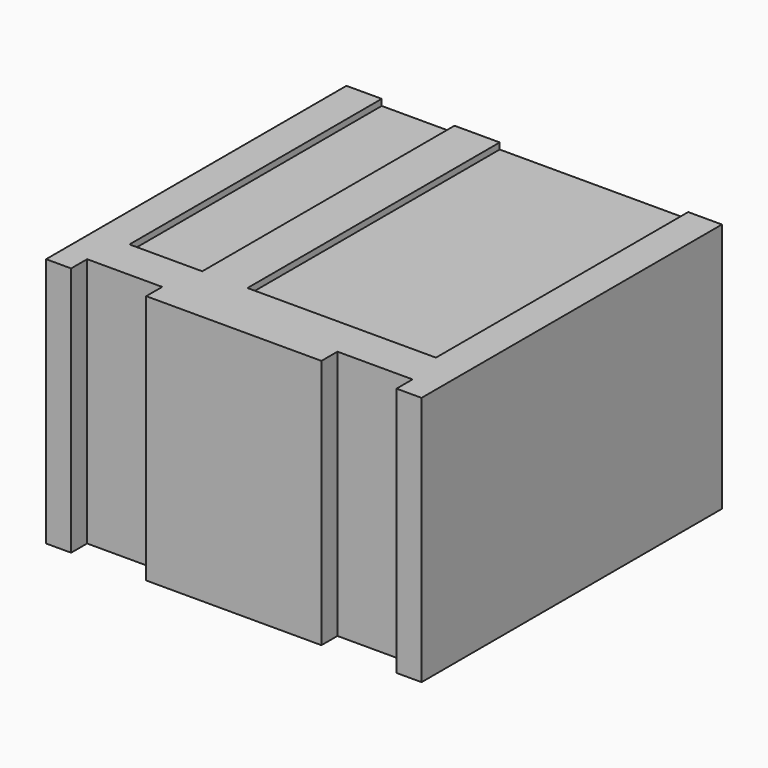
from build123d import *

# Parameters (mm, degrees)
F0_W     = 1500
F0_H     = 1000
F1_DEPTH = 1500
F2_W     = 300
F2_H     = 80
F3_DEPTH = 1000
F4_W     = 290.798738
F4_H     = 1259.663105
F4_W_2   = 753.015757
F5_DEPTH = 25
F6_W     = 1170.94978
F6_H     = 737.592996
F7_DEPTH = 25
F8_W     = 501.033828
F8_H     = 1276.894093
F9_DEPTH = 25


with BuildPart() as f1:
    # F0 (on Front) → F1 (new body)
    with BuildSketch(Plane.XZ):
        with Locations((750, 500)):
            Rectangle(F0_W, F0_H)
    extrude(amount=F1_DEPTH)

    # F2 (on face) → F3 (cut)
    with BuildSketch(Plane.XY.offset(1000)):
        with Locations((250, -1460)):
            Rectangle(F2_W, F2_H)
        with Locations((1250, -1460)):
            Rectangle(F2_W, F2_H)
    extrude(amount=-F3_DEPTH, mode=Mode.SUBTRACT)

    # F4 (on face) → F5 (cut)
    with BuildSketch(Plane.XY.offset(1000)):
        with Locations((286.252491, -629.831552)):
            Rectangle(F4_W, F4_H)
        with Locations((988.761067, -629.831552)):
            Rectangle(F4_W_2, F4_H)
    extrude(amount=-F5_DEPTH, mode=Mode.SUBTRACT)

    # F6 (on face) → F7 (cut)
    with BuildSketch(Plane(origin=(0, 0, 0), x_dir=(0, -1, 0), z_dir=(-1, 0, 0))):
        with Locations((685.361821, 483.926624)):
            Rectangle(F6_W, F6_H)
    extrude(amount=-F7_DEPTH, mode=Mode.SUBTRACT)

    # F8 (on face) → F9 (cut)
    with BuildSketch(Plane(origin=(0, 0, 0), x_dir=(1, 0, 0), z_dir=(0, 0, -1))):
        with Locations((446.271874, 638.447046)):
            Rectangle(F8_W, F8_H)
    extrude(amount=-F9_DEPTH, mode=Mode.SUBTRACT)


solid = f1.part
